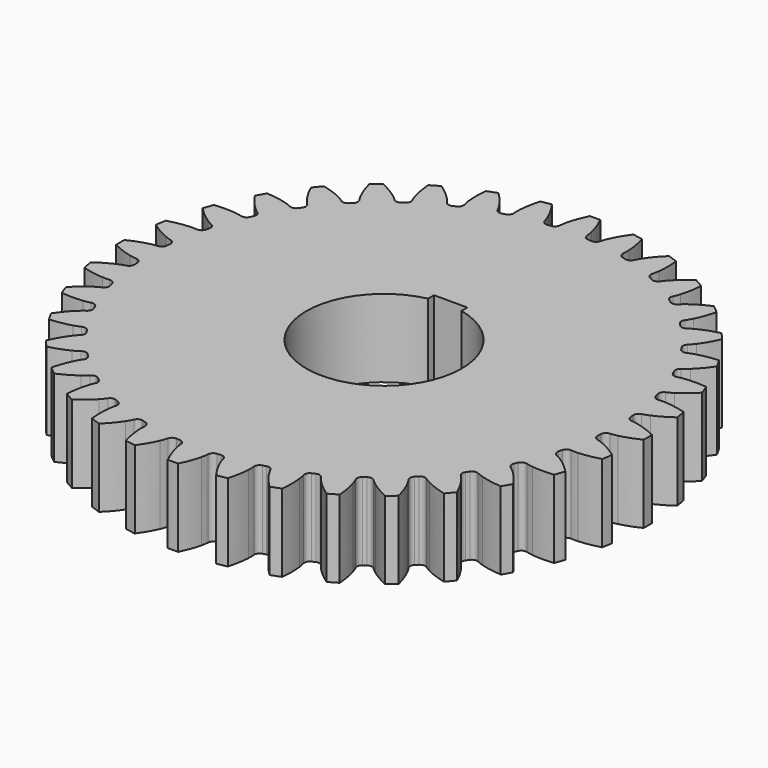
from build123d import *

# Parameters (mm, degrees)
PAD_DEPTH    = 7
POCKET_DEPTH = 7.001


with BuildPart() as part:
    # InvoluteGear → Pad (new body)
    with BuildSketch(Plane.XY):
        with BuildLine():
            add(Edge.make_bspline(
                [(21.31567, -1.229603), (21.45677, -1.217985), (21.668077, -1.190486), (21.946618, -1.126843)],
                knots=[0, 0, 0, 0, 1, 1, 1, 1], degree=3))
            add(Edge.make_bspline(
                [(21.946618, -1.126843), (22.391789, -1.024903), (23.001448, -0.832285), (23.746185, -0.470121)],
                knots=[0, 0, 0, 0, 1, 1, 1, 1], degree=3))
            ThreePointArc((23.746185, -0.470121), (23.750419, 0.000158), (23.745341, 0.470429))
            add(Edge.make_bspline(
                [(23.745341, 0.470429), (23.001448, 0.832285), (22.391789, 1.024903), (21.946618, 1.126843)],
                knots=[0, 0, 0, 0, 1, 1, 1, 1], degree=3))
            add(Edge.make_bspline(
                [(21.946618, 1.126843), (21.668077, 1.190486), (21.45677, 1.217985), (21.315806, 1.229586)],
                knots=[0, 0, 0, 0, 1, 1, 1, 1], degree=3))
            ThreePointArc((21.315806, 1.229586), (21.011728, 1.364872), (20.871073, 1.666503))
            ThreePointArc((20.871073, 1.666503), (20.857826, 1.824823), (20.843379, 1.983038))
            ThreePointArc((20.843379, 1.983038), (20.929484, 2.304451), (21.205355, 2.490504))
            add(Edge.make_bspline(
                [(21.205355, 2.490504), (21.342294, 2.526448), (21.545616, 2.590222), (21.808874, 2.701266)],
                knots=[0, 0, 0, 0, 1, 1, 1, 1], degree=3))
            add(Edge.make_bspline(
                [(21.808874, 2.701266), (22.22958, 2.878961), (22.796529, 3.174518), (23.467062, 3.660503)],
                knots=[0, 0, 0, 0, 1, 1, 1, 1], degree=3))
            ThreePointArc((23.467062, 3.660503), (23.389569, 4.124373), (23.302906, 4.586617))
            add(Edge.make_bspline(
                [(23.302906, 4.586617), (22.507479, 4.813801), (21.873635, 4.897626), (21.417525, 4.920714)],
                knots=[0, 0, 0, 0, 1, 1, 1, 1], degree=3))
            add(Edge.make_bspline(
                [(21.417525, 4.920714), (21.132164, 4.935022), (20.919292, 4.92541), (20.778455, 4.912356)],
                knots=[0, 0, 0, 0, 1, 1, 1, 1], degree=3))
            ThreePointArc((20.778455, 4.912356), (20.455505, 4.992784), (20.264609, 5.265409))
            ThreePointArc((20.264609, 5.265409), (20.224072, 5.419024), (20.182371, 5.572326))
            ThreePointArc((20.182371, 5.572326), (20.211355, 5.903808), (20.450727, 6.134939))
            add(Edge.make_bspline(
                [(20.450727, 6.134939), (20.579343, 6.194116), (20.768502, 6.292227), (21.008478, 6.447299)],
                knots=[0, 0, 0, 0, 1, 1, 1, 1], degree=3))
            add(Edge.make_bspline(
                [(21.008478, 6.447299), (21.391937, 6.695349), (21.898949, 7.084866), (22.474905, 7.679904)],
                knots=[0, 0, 0, 0, 1, 1, 1, 1], degree=3))
            ThreePointArc((22.474905, 7.679904), (22.318039, 8.12327), (22.152425, 8.563443))
            add(Edge.make_bspline(
                [(22.152425, 8.563443), (21.329633, 8.649051), (20.690862, 8.621537), (20.237672, 8.565071)],
                knots=[0, 0, 0, 0, 1, 1, 1, 1], degree=3))
            add(Edge.make_bspline(
                [(20.237672, 8.565071), (19.954162, 8.52961), (19.746193, 8.483179), (19.609762, 8.445868)],
                knots=[0, 0, 0, 0, 1, 1, 1, 1], degree=3))
            ThreePointArc((19.609762, 8.445868), (19.277752, 8.468994), (19.042415, 8.704328))
            ThreePointArc((19.042415, 8.704328), (18.975819, 8.84857), (18.908131, 8.992302))
            ThreePointArc((18.908131, 8.992302), (18.879113, 9.323781), (19.074713, 9.592967))
            add(Edge.make_bspline(
                [(19.074713, 9.592967), (19.1911, 9.673579), (19.360348, 9.803047), (19.56975, 9.997434)],
                knots=[0, 0, 0, 0, 1, 1, 1, 1], degree=3))
            add(Edge.make_bspline(
                [(19.56975, 9.997434), (19.90431, 10.308302), (20.335981, 10.779944), (20.79986, 11.465956)],
                knots=[0, 0, 0, 0, 1, 1, 1, 1], degree=3))
            ThreePointArc((20.79986, 11.465956), (20.568387, 11.875346), (20.328854, 12.280073))
            add(Edge.make_bspline(
                [(20.328854, 12.280073), (19.503696, 12.221504), (18.879407, 12.083487), (18.442907, 11.949184)],
                knots=[0, 0, 0, 0, 1, 1, 1, 1], degree=3))
            add(Edge.make_bspline(
                [(18.442907, 11.949184), (18.169862, 11.86503), (17.973115, 11.78319), (17.845236, 11.722755)],
                knots=[0, 0, 0, 0, 1, 1, 1, 1], degree=3))
            ThreePointArc((17.845236, 11.722755), (17.514254, 11.687877), (17.241627, 11.87877))
            ThreePointArc((17.241627, 11.87877), (17.150996, 12.009257), (17.059377, 12.139051))
            ThreePointArc((17.059377, 12.139051), (16.973239, 12.460456), (17.119124, 12.759518))
            add(Edge.make_bspline(
                [(17.119124, 12.759518), (17.219745, 12.859115), (17.36394, 13.016006), (17.536405, 13.243802)],
                knots=[0, 0, 0, 0, 1, 1, 1, 1], degree=3))
            add(Edge.make_bspline(
                [(17.536405, 13.243802), (17.811901, 13.608043), (18.155114, 14.147478), (18.492821, 14.90362)],
                knots=[0, 0, 0, 0, 1, 1, 1, 1], degree=3))
            ThreePointArc((18.492821, 14.90362), (18.193775, 15.266596), (17.887601, 15.62358))
            add(Edge.make_bspline(
                [(17.887601, 15.62358), (17.085149, 15.422613), (16.494311, 15.178286), (16.087764, 14.970226)],
                knots=[0, 0, 0, 0, 1, 1, 1, 1], degree=3))
            add(Edge.make_bspline(
                [(16.087764, 14.970226), (15.83348, 14.839937), (15.653934, 14.725176), (15.538492, 14.643453)],
                knots=[0, 0, 0, 0, 1, 1, 1, 1], degree=3))
            ThreePointArc((15.538492, 14.643453), (15.218595, 14.551631), (14.916962, 14.692282))
            ThreePointArc((14.916962, 14.692282), (14.805048, 14.805048), (14.692282, 14.916962))
            ThreePointArc((14.692282, 14.916962), (14.551642, 15.218525), (14.643379, 15.538377))
            add(Edge.make_bspline(
                [(14.643379, 15.538377), (14.725176, 15.653934), (14.839937, 15.83348), (14.970226, 16.087764)],
                knots=[0, 0, 0, 0, 1, 1, 1, 1], degree=3))
            add(Edge.make_bspline(
                [(14.970226, 16.087764), (15.178286, 16.494311), (15.422613, 17.085149), (15.623887, 17.888445)],
                knots=[0, 0, 0, 0, 1, 1, 1, 1], degree=3))
            ThreePointArc((15.623887, 17.888445), (15.266354, 18.193978), (14.902842, 18.492372))
            add(Edge.make_bspline(
                [(14.902842, 18.492372), (14.147478, 18.155114), (13.608043, 17.811901), (13.243802, 17.536405)],
                knots=[0, 0, 0, 0, 1, 1, 1, 1], degree=3))
            add(Edge.make_bspline(
                [(13.243802, 17.536405), (13.016006, 17.36394), (12.859115, 17.219745), (12.759618, 17.119217)],
                knots=[0, 0, 0, 0, 1, 1, 1, 1], degree=3))
            ThreePointArc((12.759618, 17.119217), (12.460526, 16.97324), (12.139051, 17.059377))
            ThreePointArc((12.139051, 17.059377), (12.009257, 17.150996), (11.87877, 17.241627))
            ThreePointArc((11.87877, 17.241627), (11.687901, 17.514188), (11.722703, 17.84511))
            add(Edge.make_bspline(
                [(11.722703, 17.84511), (11.78319, 17.973115), (11.86503, 18.169862), (11.949184, 18.442907)],
                knots=[0, 0, 0, 0, 1, 1, 1, 1], degree=3))
            add(Edge.make_bspline(
                [(11.949184, 18.442907), (12.083487, 18.879407), (12.221504, 19.503696), (12.280229, 20.329739)],
                knots=[0, 0, 0, 0, 1, 1, 1, 1], degree=3))
            ThreePointArc((12.280229, 20.329739), (11.875073, 20.568545), (11.465267, 20.799282))
            add(Edge.make_bspline(
                [(11.465267, 20.799282), (10.779944, 20.335981), (10.308302, 19.90431), (9.997434, 19.56975)],
                knots=[0, 0, 0, 0, 1, 1, 1, 1], degree=3))
            add(Edge.make_bspline(
                [(9.997434, 19.56975), (9.803047, 19.360348), (9.673579, 19.1911), (9.59305, 19.074822)],
                knots=[0, 0, 0, 0, 1, 1, 1, 1], degree=3))
            ThreePointArc((9.59305, 19.074822), (9.32385, 18.879126), (8.992302, 18.908131))
            ThreePointArc((8.992302, 18.908131), (8.84857, 18.975819), (8.704328, 19.042415))
            ThreePointArc((8.704328, 19.042415), (8.469029, 19.277691), (8.445838, 19.609628))
            add(Edge.make_bspline(
                [(8.445838, 19.609628), (8.483179, 19.746193), (8.52961, 19.954162), (8.565071, 20.237672)],
                knots=[0, 0, 0, 0, 1, 1, 1, 1], degree=3))
            add(Edge.make_bspline(
                [(8.565071, 20.237672), (8.621537, 20.690862), (8.649051, 21.329633), (8.563443, 22.153324)],
                knots=[0, 0, 0, 0, 1, 1, 1, 1], degree=3))
            ThreePointArc((8.563443, 22.153324), (8.122973, 22.318147), (7.679327, 22.474217))
            add(Edge.make_bspline(
                [(7.679327, 22.474217), (7.084866, 21.898949), (6.695349, 21.391937), (6.447299, 21.008478)],
                knots=[0, 0, 0, 0, 1, 1, 1, 1], degree=3))
            add(Edge.make_bspline(
                [(6.447299, 21.008478), (6.292227, 20.768502), (6.194116, 20.579343), (6.135002, 20.450848)],
                knots=[0, 0, 0, 0, 1, 1, 1, 1], degree=3))
            ThreePointArc((6.135002, 20.450848), (5.903874, 20.211379), (5.572326, 20.182371))
            ThreePointArc((5.572326, 20.182371), (5.419024, 20.224072), (5.265409, 20.264609))
            ThreePointArc((5.265409, 20.264609), (4.992829, 20.455451), (4.91235, 20.778318))
            add(Edge.make_bspline(
                [(4.91235, 20.778318), (4.92541, 20.919292), (4.935022, 21.132164), (4.920714, 21.417525)],
                knots=[0, 0, 0, 0, 1, 1, 1, 1], degree=3))
            add(Edge.make_bspline(
                [(4.920714, 21.417525), (4.897626, 21.873635), (4.813801, 22.507479), (4.58646, 23.303791)],
                knots=[0, 0, 0, 0, 1, 1, 1, 1], degree=3))
            ThreePointArc((4.58646, 23.303791), (4.124061, 23.389624), (3.660053, 23.466285))
            add(Edge.make_bspline(
                [(3.660053, 23.466285), (3.174518, 22.796529), (2.878961, 22.22958), (2.701266, 21.808874)],
                knots=[0, 0, 0, 0, 1, 1, 1, 1], degree=3))
            add(Edge.make_bspline(
                [(2.701266, 21.808874), (2.590222, 21.545616), (2.526448, 21.342294), (2.490545, 21.205486)],
                knots=[0, 0, 0, 0, 1, 1, 1, 1], degree=3))
            ThreePointArc((2.490545, 21.205486), (2.304512, 20.92952), (1.983038, 20.843379))
            ThreePointArc((1.983038, 20.843379), (1.824823, 20.857826), (1.666503, 20.871073))
            ThreePointArc((1.666503, 20.871073), (1.364925, 21.011682), (1.229603, 21.31567))
            add(Edge.make_bspline(
                [(1.229603, 21.31567), (1.217985, 21.45677), (1.190486, 21.668077), (1.126843, 21.946618)],
                knots=[0, 0, 0, 0, 1, 1, 1, 1], degree=3))
            add(Edge.make_bspline(
                [(1.126843, 21.946618), (1.024903, 22.391789), (0.832285, 23.001448), (0.470121, 23.746185)],
                knots=[0, 0, 0, 0, 1, 1, 1, 1], degree=3))
            ThreePointArc((0.470121, 23.746185), (-0.000158, 23.750419), (-0.470429, 23.745341))
            add(Edge.make_bspline(
                [(-0.470429, 23.745341), (-0.832285, 23.001448), (-1.024903, 22.391789), (-1.126843, 21.946618)],
                knots=[0, 0, 0, 0, 1, 1, 1, 1], degree=3))
            add(Edge.make_bspline(
                [(-1.126843, 21.946618), (-1.190486, 21.668077), (-1.217985, 21.45677), (-1.229586, 21.315806)],
                knots=[0, 0, 0, 0, 1, 1, 1, 1], degree=3))
            ThreePointArc((-1.229586, 21.315806), (-1.364872, 21.011728), (-1.666503, 20.871073))
            ThreePointArc((-1.666503, 20.871073), (-1.824823, 20.857826), (-1.983038, 20.843379))
            ThreePointArc((-1.983038, 20.843379), (-2.304451, 20.929484), (-2.490504, 21.205355))
            add(Edge.make_bspline(
                [(-2.490504, 21.205355), (-2.526448, 21.342294), (-2.590222, 21.545616), (-2.701266, 21.808874)],
                knots=[0, 0, 0, 0, 1, 1, 1, 1], degree=3))
            add(Edge.make_bspline(
                [(-2.701266, 21.808874), (-2.878961, 22.22958), (-3.174518, 22.796529), (-3.660503, 23.467062)],
                knots=[0, 0, 0, 0, 1, 1, 1, 1], degree=3))
            ThreePointArc((-3.660503, 23.467062), (-4.124373, 23.389569), (-4.586617, 23.302906))
            add(Edge.make_bspline(
                [(-4.586617, 23.302906), (-4.813801, 22.507479), (-4.897626, 21.873635), (-4.920714, 21.417525)],
                knots=[0, 0, 0, 0, 1, 1, 1, 1], degree=3))
            add(Edge.make_bspline(
                [(-4.920714, 21.417525), (-4.935022, 21.132164), (-4.92541, 20.919292), (-4.912356, 20.778455)],
                knots=[0, 0, 0, 0, 1, 1, 1, 1], degree=3))
            ThreePointArc((-4.912356, 20.778455), (-4.992784, 20.455505), (-5.265409, 20.264609))
            ThreePointArc((-5.265409, 20.264609), (-5.419024, 20.224072), (-5.572326, 20.182371))
            ThreePointArc((-5.572326, 20.182371), (-5.903808, 20.211355), (-6.134939, 20.450727))
            add(Edge.make_bspline(
                [(-6.134939, 20.450727), (-6.194116, 20.579343), (-6.292227, 20.768502), (-6.447299, 21.008478)],
                knots=[0, 0, 0, 0, 1, 1, 1, 1], degree=3))
            add(Edge.make_bspline(
                [(-6.447299, 21.008478), (-6.695349, 21.391937), (-7.084866, 21.898949), (-7.679904, 22.474905)],
                knots=[0, 0, 0, 0, 1, 1, 1, 1], degree=3))
            ThreePointArc((-7.679904, 22.474905), (-8.12327, 22.318039), (-8.563443, 22.152425))
            add(Edge.make_bspline(
                [(-8.563443, 22.152425), (-8.649051, 21.329633), (-8.621537, 20.690862), (-8.565071, 20.237672)],
                knots=[0, 0, 0, 0, 1, 1, 1, 1], degree=3))
            add(Edge.make_bspline(
                [(-8.565071, 20.237672), (-8.52961, 19.954162), (-8.483179, 19.746193), (-8.445868, 19.609762)],
                knots=[0, 0, 0, 0, 1, 1, 1, 1], degree=3))
            ThreePointArc((-8.445868, 19.609762), (-8.468994, 19.277752), (-8.704328, 19.042415))
            ThreePointArc((-8.704328, 19.042415), (-8.84857, 18.975819), (-8.992302, 18.908131))
            ThreePointArc((-8.992302, 18.908131), (-9.323781, 18.879113), (-9.592967, 19.074713))
            add(Edge.make_bspline(
                [(-9.592967, 19.074713), (-9.673579, 19.1911), (-9.803047, 19.360348), (-9.997434, 19.56975)],
                knots=[0, 0, 0, 0, 1, 1, 1, 1], degree=3))
            add(Edge.make_bspline(
                [(-9.997434, 19.56975), (-10.308302, 19.90431), (-10.779944, 20.335981), (-11.465956, 20.79986)],
                knots=[0, 0, 0, 0, 1, 1, 1, 1], degree=3))
            ThreePointArc((-11.465956, 20.79986), (-11.875346, 20.568387), (-12.280073, 20.328854))
            add(Edge.make_bspline(
                [(-12.280073, 20.328854), (-12.221504, 19.503696), (-12.083487, 18.879407), (-11.949184, 18.442907)],
                knots=[0, 0, 0, 0, 1, 1, 1, 1], degree=3))
            add(Edge.make_bspline(
                [(-11.949184, 18.442907), (-11.86503, 18.169862), (-11.78319, 17.973115), (-11.722755, 17.845236)],
                knots=[0, 0, 0, 0, 1, 1, 1, 1], degree=3))
            ThreePointArc((-11.722755, 17.845236), (-11.687877, 17.514254), (-11.87877, 17.241627))
            ThreePointArc((-11.87877, 17.241627), (-12.009257, 17.150996), (-12.139051, 17.059377))
            ThreePointArc((-12.139051, 17.059377), (-12.460456, 16.973239), (-12.759518, 17.119124))
            add(Edge.make_bspline(
                [(-12.759518, 17.119124), (-12.859115, 17.219745), (-13.016006, 17.36394), (-13.243802, 17.536405)],
                knots=[0, 0, 0, 0, 1, 1, 1, 1], degree=3))
            add(Edge.make_bspline(
                [(-13.243802, 17.536405), (-13.608043, 17.811901), (-14.147478, 18.155114), (-14.90362, 18.492821)],
                knots=[0, 0, 0, 0, 1, 1, 1, 1], degree=3))
            ThreePointArc((-14.90362, 18.492821), (-15.266596, 18.193775), (-15.62358, 17.887601))
            add(Edge.make_bspline(
                [(-15.62358, 17.887601), (-15.422613, 17.085149), (-15.178286, 16.494311), (-14.970226, 16.087764)],
                knots=[0, 0, 0, 0, 1, 1, 1, 1], degree=3))
            add(Edge.make_bspline(
                [(-14.970226, 16.087764), (-14.839937, 15.83348), (-14.725176, 15.653934), (-14.643453, 15.538492)],
                knots=[0, 0, 0, 0, 1, 1, 1, 1], degree=3))
            ThreePointArc((-14.643453, 15.538492), (-14.551631, 15.218595), (-14.692282, 14.916962))
            ThreePointArc((-14.692282, 14.916962), (-14.805048, 14.805048), (-14.916962, 14.692282))
            ThreePointArc((-14.916962, 14.692282), (-15.218525, 14.551642), (-15.538377, 14.643379))
            add(Edge.make_bspline(
                [(-15.538377, 14.643379), (-15.653934, 14.725176), (-15.83348, 14.839937), (-16.087764, 14.970226)],
                knots=[0, 0, 0, 0, 1, 1, 1, 1], degree=3))
            add(Edge.make_bspline(
                [(-16.087764, 14.970226), (-16.494311, 15.178286), (-17.085149, 15.422613), (-17.888445, 15.623887)],
                knots=[0, 0, 0, 0, 1, 1, 1, 1], degree=3))
            ThreePointArc((-17.888445, 15.623887), (-18.193978, 15.266354), (-18.492372, 14.902842))
            add(Edge.make_bspline(
                [(-18.492372, 14.902842), (-18.155114, 14.147478), (-17.811901, 13.608043), (-17.536405, 13.243802)],
                knots=[0, 0, 0, 0, 1, 1, 1, 1], degree=3))
            add(Edge.make_bspline(
                [(-17.536405, 13.243802), (-17.36394, 13.016006), (-17.219745, 12.859115), (-17.119217, 12.759618)],
                knots=[0, 0, 0, 0, 1, 1, 1, 1], degree=3))
            ThreePointArc((-17.119217, 12.759618), (-16.97324, 12.460526), (-17.059377, 12.139051))
            ThreePointArc((-17.059377, 12.139051), (-17.150996, 12.009257), (-17.241627, 11.87877))
            ThreePointArc((-17.241627, 11.87877), (-17.514188, 11.687901), (-17.84511, 11.722703))
            add(Edge.make_bspline(
                [(-17.84511, 11.722703), (-17.973115, 11.78319), (-18.169862, 11.86503), (-18.442907, 11.949184)],
                knots=[0, 0, 0, 0, 1, 1, 1, 1], degree=3))
            add(Edge.make_bspline(
                [(-18.442907, 11.949184), (-18.879407, 12.083487), (-19.503696, 12.221504), (-20.329739, 12.280229)],
                knots=[0, 0, 0, 0, 1, 1, 1, 1], degree=3))
            ThreePointArc((-20.329739, 12.280229), (-20.568545, 11.875073), (-20.799282, 11.465267))
            add(Edge.make_bspline(
                [(-20.799282, 11.465267), (-20.335981, 10.779944), (-19.90431, 10.308302), (-19.56975, 9.997434)],
                knots=[0, 0, 0, 0, 1, 1, 1, 1], degree=3))
            add(Edge.make_bspline(
                [(-19.56975, 9.997434), (-19.360348, 9.803047), (-19.1911, 9.673579), (-19.074822, 9.59305)],
                knots=[0, 0, 0, 0, 1, 1, 1, 1], degree=3))
            ThreePointArc((-19.074822, 9.59305), (-18.879126, 9.32385), (-18.908131, 8.992302))
            ThreePointArc((-18.908131, 8.992302), (-18.975819, 8.84857), (-19.042415, 8.704328))
            ThreePointArc((-19.042415, 8.704328), (-19.277691, 8.469029), (-19.609628, 8.445838))
            add(Edge.make_bspline(
                [(-19.609628, 8.445838), (-19.746193, 8.483179), (-19.954162, 8.52961), (-20.237672, 8.565071)],
                knots=[0, 0, 0, 0, 1, 1, 1, 1], degree=3))
            add(Edge.make_bspline(
                [(-20.237672, 8.565071), (-20.690862, 8.621537), (-21.329633, 8.649051), (-22.153324, 8.563443)],
                knots=[0, 0, 0, 0, 1, 1, 1, 1], degree=3))
            ThreePointArc((-22.153324, 8.563443), (-22.318147, 8.122973), (-22.474217, 7.679327))
            add(Edge.make_bspline(
                [(-22.474217, 7.679327), (-21.898949, 7.084866), (-21.391937, 6.695349), (-21.008478, 6.447299)],
                knots=[0, 0, 0, 0, 1, 1, 1, 1], degree=3))
            add(Edge.make_bspline(
                [(-21.008478, 6.447299), (-20.768502, 6.292227), (-20.579343, 6.194116), (-20.450848, 6.135002)],
                knots=[0, 0, 0, 0, 1, 1, 1, 1], degree=3))
            ThreePointArc((-20.450848, 6.135002), (-20.211379, 5.903874), (-20.182371, 5.572326))
            ThreePointArc((-20.182371, 5.572326), (-20.224072, 5.419024), (-20.264609, 5.265409))
            ThreePointArc((-20.264609, 5.265409), (-20.455451, 4.992829), (-20.778318, 4.91235))
            add(Edge.make_bspline(
                [(-20.778318, 4.91235), (-20.919292, 4.92541), (-21.132164, 4.935022), (-21.417525, 4.920714)],
                knots=[0, 0, 0, 0, 1, 1, 1, 1], degree=3))
            add(Edge.make_bspline(
                [(-21.417525, 4.920714), (-21.873635, 4.897626), (-22.507479, 4.813801), (-23.303791, 4.58646)],
                knots=[0, 0, 0, 0, 1, 1, 1, 1], degree=3))
            ThreePointArc((-23.303791, 4.58646), (-23.389624, 4.124061), (-23.466285, 3.660053))
            add(Edge.make_bspline(
                [(-23.466285, 3.660053), (-22.796529, 3.174518), (-22.22958, 2.878961), (-21.808874, 2.701266)],
                knots=[0, 0, 0, 0, 1, 1, 1, 1], degree=3))
            add(Edge.make_bspline(
                [(-21.808874, 2.701266), (-21.545616, 2.590222), (-21.342294, 2.526448), (-21.205486, 2.490545)],
                knots=[0, 0, 0, 0, 1, 1, 1, 1], degree=3))
            ThreePointArc((-21.205486, 2.490545), (-20.92952, 2.304512), (-20.843379, 1.983038))
            ThreePointArc((-20.843379, 1.983038), (-20.857826, 1.824823), (-20.871073, 1.666503))
            ThreePointArc((-20.871073, 1.666503), (-21.011682, 1.364925), (-21.31567, 1.229603))
            add(Edge.make_bspline(
                [(-21.31567, 1.229603), (-21.45677, 1.217985), (-21.668077, 1.190486), (-21.946618, 1.126843)],
                knots=[0, 0, 0, 0, 1, 1, 1, 1], degree=3))
            add(Edge.make_bspline(
                [(-21.946618, 1.126843), (-22.391789, 1.024903), (-23.001448, 0.832285), (-23.746185, 0.470121)],
                knots=[0, 0, 0, 0, 1, 1, 1, 1], degree=3))
            ThreePointArc((-23.746185, 0.470121), (-23.750419, -0.000158), (-23.745341, -0.470429))
            add(Edge.make_bspline(
                [(-23.745341, -0.470429), (-23.001448, -0.832285), (-22.391789, -1.024903), (-21.946618, -1.126843)],
                knots=[0, 0, 0, 0, 1, 1, 1, 1], degree=3))
            add(Edge.make_bspline(
                [(-21.946618, -1.126843), (-21.668077, -1.190486), (-21.45677, -1.217985), (-21.315806, -1.229586)],
                knots=[0, 0, 0, 0, 1, 1, 1, 1], degree=3))
            ThreePointArc((-21.315806, -1.229586), (-21.011728, -1.364872), (-20.871073, -1.666503))
            ThreePointArc((-20.871073, -1.666503), (-20.857826, -1.824823), (-20.843379, -1.983038))
            ThreePointArc((-20.843379, -1.983038), (-20.929484, -2.304451), (-21.205355, -2.490504))
            add(Edge.make_bspline(
                [(-21.205355, -2.490504), (-21.342294, -2.526448), (-21.545616, -2.590222), (-21.808874, -2.701266)],
                knots=[0, 0, 0, 0, 1, 1, 1, 1], degree=3))
            add(Edge.make_bspline(
                [(-21.808874, -2.701266), (-22.22958, -2.878961), (-22.796529, -3.174518), (-23.467062, -3.660503)],
                knots=[0, 0, 0, 0, 1, 1, 1, 1], degree=3))
            ThreePointArc((-23.467062, -3.660503), (-23.389569, -4.124373), (-23.302906, -4.586617))
            add(Edge.make_bspline(
                [(-23.302906, -4.586617), (-22.507479, -4.813801), (-21.873635, -4.897626), (-21.417525, -4.920714)],
                knots=[0, 0, 0, 0, 1, 1, 1, 1], degree=3))
            add(Edge.make_bspline(
                [(-21.417525, -4.920714), (-21.132164, -4.935022), (-20.919292, -4.92541), (-20.778455, -4.912356)],
                knots=[0, 0, 0, 0, 1, 1, 1, 1], degree=3))
            ThreePointArc((-20.778455, -4.912356), (-20.455505, -4.992784), (-20.264609, -5.265409))
            ThreePointArc((-20.264609, -5.265409), (-20.224072, -5.419024), (-20.182371, -5.572326))
            ThreePointArc((-20.182371, -5.572326), (-20.211355, -5.903808), (-20.450727, -6.134939))
            add(Edge.make_bspline(
                [(-20.450727, -6.134939), (-20.579343, -6.194116), (-20.768502, -6.292227), (-21.008478, -6.447299)],
                knots=[0, 0, 0, 0, 1, 1, 1, 1], degree=3))
            add(Edge.make_bspline(
                [(-21.008478, -6.447299), (-21.391937, -6.695349), (-21.898949, -7.084866), (-22.474905, -7.679904)],
                knots=[0, 0, 0, 0, 1, 1, 1, 1], degree=3))
            ThreePointArc((-22.474905, -7.679904), (-22.318039, -8.12327), (-22.152425, -8.563443))
            add(Edge.make_bspline(
                [(-22.152425, -8.563443), (-21.329633, -8.649051), (-20.690862, -8.621537), (-20.237672, -8.565071)],
                knots=[0, 0, 0, 0, 1, 1, 1, 1], degree=3))
            add(Edge.make_bspline(
                [(-20.237672, -8.565071), (-19.954162, -8.52961), (-19.746193, -8.483179), (-19.609762, -8.445868)],
                knots=[0, 0, 0, 0, 1, 1, 1, 1], degree=3))
            ThreePointArc((-19.609762, -8.445868), (-19.277752, -8.468994), (-19.042415, -8.704328))
            ThreePointArc((-19.042415, -8.704328), (-18.975819, -8.84857), (-18.908131, -8.992302))
            ThreePointArc((-18.908131, -8.992302), (-18.879113, -9.323781), (-19.074713, -9.592967))
            add(Edge.make_bspline(
                [(-19.074713, -9.592967), (-19.1911, -9.673579), (-19.360348, -9.803047), (-19.56975, -9.997434)],
                knots=[0, 0, 0, 0, 1, 1, 1, 1], degree=3))
            add(Edge.make_bspline(
                [(-19.56975, -9.997434), (-19.90431, -10.308302), (-20.335981, -10.779944), (-20.79986, -11.465956)],
                knots=[0, 0, 0, 0, 1, 1, 1, 1], degree=3))
            ThreePointArc((-20.79986, -11.465956), (-20.568387, -11.875346), (-20.328854, -12.280073))
            add(Edge.make_bspline(
                [(-20.328854, -12.280073), (-19.503696, -12.221504), (-18.879407, -12.083487), (-18.442907, -11.949184)],
                knots=[0, 0, 0, 0, 1, 1, 1, 1], degree=3))
            add(Edge.make_bspline(
                [(-18.442907, -11.949184), (-18.169862, -11.86503), (-17.973115, -11.78319), (-17.845236, -11.722755)],
                knots=[0, 0, 0, 0, 1, 1, 1, 1], degree=3))
            ThreePointArc((-17.845236, -11.722755), (-17.514254, -11.687877), (-17.241627, -11.87877))
            ThreePointArc((-17.241627, -11.87877), (-17.150996, -12.009257), (-17.059377, -12.139051))
            ThreePointArc((-17.059377, -12.139051), (-16.973239, -12.460456), (-17.119124, -12.759518))
            add(Edge.make_bspline(
                [(-17.119124, -12.759518), (-17.219745, -12.859115), (-17.36394, -13.016006), (-17.536405, -13.243802)],
                knots=[0, 0, 0, 0, 1, 1, 1, 1], degree=3))
            add(Edge.make_bspline(
                [(-17.536405, -13.243802), (-17.811901, -13.608043), (-18.155114, -14.147478), (-18.492821, -14.90362)],
                knots=[0, 0, 0, 0, 1, 1, 1, 1], degree=3))
            ThreePointArc((-18.492821, -14.90362), (-18.193775, -15.266596), (-17.887601, -15.62358))
            add(Edge.make_bspline(
                [(-17.887601, -15.62358), (-17.085149, -15.422613), (-16.494311, -15.178286), (-16.087764, -14.970226)],
                knots=[0, 0, 0, 0, 1, 1, 1, 1], degree=3))
            add(Edge.make_bspline(
                [(-16.087764, -14.970226), (-15.83348, -14.839937), (-15.653934, -14.725176), (-15.538492, -14.643453)],
                knots=[0, 0, 0, 0, 1, 1, 1, 1], degree=3))
            ThreePointArc((-15.538492, -14.643453), (-15.218595, -14.551631), (-14.916962, -14.692282))
            ThreePointArc((-14.916962, -14.692282), (-14.805048, -14.805048), (-14.692282, -14.916962))
            ThreePointArc((-14.692282, -14.916962), (-14.551642, -15.218525), (-14.643379, -15.538377))
            add(Edge.make_bspline(
                [(-14.643379, -15.538377), (-14.725176, -15.653934), (-14.839937, -15.83348), (-14.970226, -16.087764)],
                knots=[0, 0, 0, 0, 1, 1, 1, 1], degree=3))
            add(Edge.make_bspline(
                [(-14.970226, -16.087764), (-15.178286, -16.494311), (-15.422613, -17.085149), (-15.623887, -17.888445)],
                knots=[0, 0, 0, 0, 1, 1, 1, 1], degree=3))
            ThreePointArc((-15.623887, -17.888445), (-15.266354, -18.193978), (-14.902842, -18.492372))
            add(Edge.make_bspline(
                [(-14.902842, -18.492372), (-14.147478, -18.155114), (-13.608043, -17.811901), (-13.243802, -17.536405)],
                knots=[0, 0, 0, 0, 1, 1, 1, 1], degree=3))
            add(Edge.make_bspline(
                [(-13.243802, -17.536405), (-13.016006, -17.36394), (-12.859115, -17.219745), (-12.759618, -17.119217)],
                knots=[0, 0, 0, 0, 1, 1, 1, 1], degree=3))
            ThreePointArc((-12.759618, -17.119217), (-12.460526, -16.97324), (-12.139051, -17.059377))
            ThreePointArc((-12.139051, -17.059377), (-12.009257, -17.150996), (-11.87877, -17.241627))
            ThreePointArc((-11.87877, -17.241627), (-11.687901, -17.514188), (-11.722703, -17.84511))
            add(Edge.make_bspline(
                [(-11.722703, -17.84511), (-11.78319, -17.973115), (-11.86503, -18.169862), (-11.949184, -18.442907)],
                knots=[0, 0, 0, 0, 1, 1, 1, 1], degree=3))
            add(Edge.make_bspline(
                [(-11.949184, -18.442907), (-12.083487, -18.879407), (-12.221504, -19.503696), (-12.280229, -20.329739)],
                knots=[0, 0, 0, 0, 1, 1, 1, 1], degree=3))
            ThreePointArc((-12.280229, -20.329739), (-11.875073, -20.568545), (-11.465267, -20.799282))
            add(Edge.make_bspline(
                [(-11.465267, -20.799282), (-10.779944, -20.335981), (-10.308302, -19.90431), (-9.997434, -19.56975)],
                knots=[0, 0, 0, 0, 1, 1, 1, 1], degree=3))
            add(Edge.make_bspline(
                [(-9.997434, -19.56975), (-9.803047, -19.360348), (-9.673579, -19.1911), (-9.59305, -19.074822)],
                knots=[0, 0, 0, 0, 1, 1, 1, 1], degree=3))
            ThreePointArc((-9.59305, -19.074822), (-9.32385, -18.879126), (-8.992302, -18.908131))
            ThreePointArc((-8.992302, -18.908131), (-8.84857, -18.975819), (-8.704328, -19.042415))
            ThreePointArc((-8.704328, -19.042415), (-8.469029, -19.277691), (-8.445838, -19.609628))
            add(Edge.make_bspline(
                [(-8.445838, -19.609628), (-8.483179, -19.746193), (-8.52961, -19.954162), (-8.565071, -20.237672)],
                knots=[0, 0, 0, 0, 1, 1, 1, 1], degree=3))
            add(Edge.make_bspline(
                [(-8.565071, -20.237672), (-8.621537, -20.690862), (-8.649051, -21.329633), (-8.563443, -22.153324)],
                knots=[0, 0, 0, 0, 1, 1, 1, 1], degree=3))
            ThreePointArc((-8.563443, -22.153324), (-8.122973, -22.318147), (-7.679327, -22.474217))
            add(Edge.make_bspline(
                [(-7.679327, -22.474217), (-7.084866, -21.898949), (-6.695349, -21.391937), (-6.447299, -21.008478)],
                knots=[0, 0, 0, 0, 1, 1, 1, 1], degree=3))
            add(Edge.make_bspline(
                [(-6.447299, -21.008478), (-6.292227, -20.768502), (-6.194116, -20.579343), (-6.135002, -20.450848)],
                knots=[0, 0, 0, 0, 1, 1, 1, 1], degree=3))
            ThreePointArc((-6.135002, -20.450848), (-5.903874, -20.211379), (-5.572326, -20.182371))
            ThreePointArc((-5.572326, -20.182371), (-5.419024, -20.224072), (-5.265409, -20.264609))
            ThreePointArc((-5.265409, -20.264609), (-4.992829, -20.455451), (-4.91235, -20.778318))
            add(Edge.make_bspline(
                [(-4.91235, -20.778318), (-4.92541, -20.919292), (-4.935022, -21.132164), (-4.920714, -21.417525)],
                knots=[0, 0, 0, 0, 1, 1, 1, 1], degree=3))
            add(Edge.make_bspline(
                [(-4.920714, -21.417525), (-4.897626, -21.873635), (-4.813801, -22.507479), (-4.58646, -23.303791)],
                knots=[0, 0, 0, 0, 1, 1, 1, 1], degree=3))
            ThreePointArc((-4.58646, -23.303791), (-4.124061, -23.389624), (-3.660053, -23.466285))
            add(Edge.make_bspline(
                [(-3.660053, -23.466285), (-3.174518, -22.796529), (-2.878961, -22.22958), (-2.701266, -21.808874)],
                knots=[0, 0, 0, 0, 1, 1, 1, 1], degree=3))
            add(Edge.make_bspline(
                [(-2.701266, -21.808874), (-2.590222, -21.545616), (-2.526448, -21.342294), (-2.490545, -21.205486)],
                knots=[0, 0, 0, 0, 1, 1, 1, 1], degree=3))
            ThreePointArc((-2.490545, -21.205486), (-2.304512, -20.92952), (-1.983038, -20.843379))
            ThreePointArc((-1.983038, -20.843379), (-1.824823, -20.857826), (-1.666503, -20.871073))
            ThreePointArc((-1.666503, -20.871073), (-1.364925, -21.011682), (-1.229603, -21.31567))
            add(Edge.make_bspline(
                [(-1.229603, -21.31567), (-1.217985, -21.45677), (-1.190486, -21.668077), (-1.126843, -21.946618)],
                knots=[0, 0, 0, 0, 1, 1, 1, 1], degree=3))
            add(Edge.make_bspline(
                [(-1.126843, -21.946618), (-1.024903, -22.391789), (-0.832285, -23.001448), (-0.470121, -23.746185)],
                knots=[0, 0, 0, 0, 1, 1, 1, 1], degree=3))
            ThreePointArc((-0.470121, -23.746185), (0.000158, -23.750419), (0.470429, -23.745341))
            add(Edge.make_bspline(
                [(0.470429, -23.745341), (0.832285, -23.001448), (1.024903, -22.391789), (1.126843, -21.946618)],
                knots=[0, 0, 0, 0, 1, 1, 1, 1], degree=3))
            add(Edge.make_bspline(
                [(1.126843, -21.946618), (1.190486, -21.668077), (1.217985, -21.45677), (1.229586, -21.315806)],
                knots=[0, 0, 0, 0, 1, 1, 1, 1], degree=3))
            ThreePointArc((1.229586, -21.315806), (1.364872, -21.011728), (1.666503, -20.871073))
            ThreePointArc((1.666503, -20.871073), (1.824823, -20.857826), (1.983038, -20.843379))
            ThreePointArc((1.983038, -20.843379), (2.304451, -20.929484), (2.490504, -21.205355))
            add(Edge.make_bspline(
                [(2.490504, -21.205355), (2.526448, -21.342294), (2.590222, -21.545616), (2.701266, -21.808874)],
                knots=[0, 0, 0, 0, 1, 1, 1, 1], degree=3))
            add(Edge.make_bspline(
                [(2.701266, -21.808874), (2.878961, -22.22958), (3.174518, -22.796529), (3.660503, -23.467062)],
                knots=[0, 0, 0, 0, 1, 1, 1, 1], degree=3))
            ThreePointArc((3.660503, -23.467062), (4.124373, -23.389569), (4.586617, -23.302906))
            add(Edge.make_bspline(
                [(4.586617, -23.302906), (4.813801, -22.507479), (4.897626, -21.873635), (4.920714, -21.417525)],
                knots=[0, 0, 0, 0, 1, 1, 1, 1], degree=3))
            add(Edge.make_bspline(
                [(4.920714, -21.417525), (4.935022, -21.132164), (4.92541, -20.919292), (4.912356, -20.778455)],
                knots=[0, 0, 0, 0, 1, 1, 1, 1], degree=3))
            ThreePointArc((4.912356, -20.778455), (4.992784, -20.455505), (5.265409, -20.264609))
            ThreePointArc((5.265409, -20.264609), (5.419024, -20.224072), (5.572326, -20.182371))
            ThreePointArc((5.572326, -20.182371), (5.903808, -20.211355), (6.134939, -20.450727))
            add(Edge.make_bspline(
                [(6.134939, -20.450727), (6.194116, -20.579343), (6.292227, -20.768502), (6.447299, -21.008478)],
                knots=[0, 0, 0, 0, 1, 1, 1, 1], degree=3))
            add(Edge.make_bspline(
                [(6.447299, -21.008478), (6.695349, -21.391937), (7.084866, -21.898949), (7.679904, -22.474905)],
                knots=[0, 0, 0, 0, 1, 1, 1, 1], degree=3))
            ThreePointArc((7.679904, -22.474905), (8.12327, -22.318039), (8.563443, -22.152425))
            add(Edge.make_bspline(
                [(8.563443, -22.152425), (8.649051, -21.329633), (8.621537, -20.690862), (8.565071, -20.237672)],
                knots=[0, 0, 0, 0, 1, 1, 1, 1], degree=3))
            add(Edge.make_bspline(
                [(8.565071, -20.237672), (8.52961, -19.954162), (8.483179, -19.746193), (8.445868, -19.609762)],
                knots=[0, 0, 0, 0, 1, 1, 1, 1], degree=3))
            ThreePointArc((8.445868, -19.609762), (8.468994, -19.277752), (8.704328, -19.042415))
            ThreePointArc((8.704328, -19.042415), (8.84857, -18.975819), (8.992302, -18.908131))
            ThreePointArc((8.992302, -18.908131), (9.323781, -18.879113), (9.592967, -19.074713))
            add(Edge.make_bspline(
                [(9.592967, -19.074713), (9.673579, -19.1911), (9.803047, -19.360348), (9.997434, -19.56975)],
                knots=[0, 0, 0, 0, 1, 1, 1, 1], degree=3))
            add(Edge.make_bspline(
                [(9.997434, -19.56975), (10.308302, -19.90431), (10.779944, -20.335981), (11.465956, -20.79986)],
                knots=[0, 0, 0, 0, 1, 1, 1, 1], degree=3))
            ThreePointArc((11.465956, -20.79986), (11.875346, -20.568387), (12.280073, -20.328854))
            add(Edge.make_bspline(
                [(12.280073, -20.328854), (12.221504, -19.503696), (12.083487, -18.879407), (11.949184, -18.442907)],
                knots=[0, 0, 0, 0, 1, 1, 1, 1], degree=3))
            add(Edge.make_bspline(
                [(11.949184, -18.442907), (11.86503, -18.169862), (11.78319, -17.973115), (11.722755, -17.845236)],
                knots=[0, 0, 0, 0, 1, 1, 1, 1], degree=3))
            ThreePointArc((11.722755, -17.845236), (11.687877, -17.514254), (11.87877, -17.241627))
            ThreePointArc((11.87877, -17.241627), (12.009257, -17.150996), (12.139051, -17.059377))
            ThreePointArc((12.139051, -17.059377), (12.460456, -16.973239), (12.759518, -17.119124))
            add(Edge.make_bspline(
                [(12.759518, -17.119124), (12.859115, -17.219745), (13.016006, -17.36394), (13.243802, -17.536405)],
                knots=[0, 0, 0, 0, 1, 1, 1, 1], degree=3))
            add(Edge.make_bspline(
                [(13.243802, -17.536405), (13.608043, -17.811901), (14.147478, -18.155114), (14.90362, -18.492821)],
                knots=[0, 0, 0, 0, 1, 1, 1, 1], degree=3))
            ThreePointArc((14.90362, -18.492821), (15.266596, -18.193775), (15.62358, -17.887601))
            add(Edge.make_bspline(
                [(15.62358, -17.887601), (15.422613, -17.085149), (15.178286, -16.494311), (14.970226, -16.087764)],
                knots=[0, 0, 0, 0, 1, 1, 1, 1], degree=3))
            add(Edge.make_bspline(
                [(14.970226, -16.087764), (14.839937, -15.83348), (14.725176, -15.653934), (14.643453, -15.538492)],
                knots=[0, 0, 0, 0, 1, 1, 1, 1], degree=3))
            ThreePointArc((14.643453, -15.538492), (14.551631, -15.218595), (14.692282, -14.916962))
            ThreePointArc((14.692282, -14.916962), (14.805048, -14.805048), (14.916962, -14.692282))
            ThreePointArc((14.916962, -14.692282), (15.218525, -14.551642), (15.538377, -14.643379))
            add(Edge.make_bspline(
                [(15.538377, -14.643379), (15.653934, -14.725176), (15.83348, -14.839937), (16.087764, -14.970226)],
                knots=[0, 0, 0, 0, 1, 1, 1, 1], degree=3))
            add(Edge.make_bspline(
                [(16.087764, -14.970226), (16.494311, -15.178286), (17.085149, -15.422613), (17.888445, -15.623887)],
                knots=[0, 0, 0, 0, 1, 1, 1, 1], degree=3))
            ThreePointArc((17.888445, -15.623887), (18.193978, -15.266354), (18.492372, -14.902842))
            add(Edge.make_bspline(
                [(18.492372, -14.902842), (18.155114, -14.147478), (17.811901, -13.608043), (17.536405, -13.243802)],
                knots=[0, 0, 0, 0, 1, 1, 1, 1], degree=3))
            add(Edge.make_bspline(
                [(17.536405, -13.243802), (17.36394, -13.016006), (17.219745, -12.859115), (17.119217, -12.759618)],
                knots=[0, 0, 0, 0, 1, 1, 1, 1], degree=3))
            ThreePointArc((17.119217, -12.759618), (16.97324, -12.460526), (17.059377, -12.139051))
            ThreePointArc((17.059377, -12.139051), (17.150996, -12.009257), (17.241627, -11.87877))
            ThreePointArc((17.241627, -11.87877), (17.514188, -11.687901), (17.84511, -11.722703))
            add(Edge.make_bspline(
                [(17.84511, -11.722703), (17.973115, -11.78319), (18.169862, -11.86503), (18.442907, -11.949184)],
                knots=[0, 0, 0, 0, 1, 1, 1, 1], degree=3))
            add(Edge.make_bspline(
                [(18.442907, -11.949184), (18.879407, -12.083487), (19.503696, -12.221504), (20.329739, -12.280229)],
                knots=[0, 0, 0, 0, 1, 1, 1, 1], degree=3))
            ThreePointArc((20.329739, -12.280229), (20.568545, -11.875073), (20.799282, -11.465267))
            add(Edge.make_bspline(
                [(20.799282, -11.465267), (20.335981, -10.779944), (19.90431, -10.308302), (19.56975, -9.997434)],
                knots=[0, 0, 0, 0, 1, 1, 1, 1], degree=3))
            add(Edge.make_bspline(
                [(19.56975, -9.997434), (19.360348, -9.803047), (19.1911, -9.673579), (19.074822, -9.59305)],
                knots=[0, 0, 0, 0, 1, 1, 1, 1], degree=3))
            ThreePointArc((19.074822, -9.59305), (18.879126, -9.32385), (18.908131, -8.992302))
            ThreePointArc((18.908131, -8.992302), (18.975819, -8.84857), (19.042415, -8.704328))
            ThreePointArc((19.042415, -8.704328), (19.277691, -8.469029), (19.609628, -8.445838))
            add(Edge.make_bspline(
                [(19.609628, -8.445838), (19.746193, -8.483179), (19.954162, -8.52961), (20.237672, -8.565071)],
                knots=[0, 0, 0, 0, 1, 1, 1, 1], degree=3))
            add(Edge.make_bspline(
                [(20.237672, -8.565071), (20.690862, -8.621537), (21.329633, -8.649051), (22.153324, -8.563443)],
                knots=[0, 0, 0, 0, 1, 1, 1, 1], degree=3))
            ThreePointArc((22.153324, -8.563443), (22.318147, -8.122973), (22.474217, -7.679327))
            add(Edge.make_bspline(
                [(22.474217, -7.679327), (21.898949, -7.084866), (21.391937, -6.695349), (21.008478, -6.447299)],
                knots=[0, 0, 0, 0, 1, 1, 1, 1], degree=3))
            add(Edge.make_bspline(
                [(21.008478, -6.447299), (20.768502, -6.292227), (20.579343, -6.194116), (20.450848, -6.135002)],
                knots=[0, 0, 0, 0, 1, 1, 1, 1], degree=3))
            ThreePointArc((20.450848, -6.135002), (20.211379, -5.903874), (20.182371, -5.572326))
            ThreePointArc((20.182371, -5.572326), (20.224072, -5.419024), (20.264609, -5.265409))
            ThreePointArc((20.264609, -5.265409), (20.455451, -4.992829), (20.778318, -4.91235))
            add(Edge.make_bspline(
                [(20.778318, -4.91235), (20.919292, -4.92541), (21.132164, -4.935022), (21.417525, -4.920714)],
                knots=[0, 0, 0, 0, 1, 1, 1, 1], degree=3))
            add(Edge.make_bspline(
                [(21.417525, -4.920714), (21.873635, -4.897626), (22.507479, -4.813801), (23.303791, -4.58646)],
                knots=[0, 0, 0, 0, 1, 1, 1, 1], degree=3))
            ThreePointArc((23.303791, -4.58646), (23.389624, -4.124061), (23.466285, -3.660053))
            add(Edge.make_bspline(
                [(23.466285, -3.660053), (22.796529, -3.174518), (22.22958, -2.878961), (21.808874, -2.701266)],
                knots=[0, 0, 0, 0, 1, 1, 1, 1], degree=3))
            add(Edge.make_bspline(
                [(21.808874, -2.701266), (21.545616, -2.590222), (21.342294, -2.526448), (21.205486, -2.490545)],
                knots=[0, 0, 0, 0, 1, 1, 1, 1], degree=3))
            ThreePointArc((21.205486, -2.490545), (20.92952, -2.304512), (20.843379, -1.983038))
            ThreePointArc((20.843379, -1.983038), (20.857826, -1.824823), (20.871073, -1.666503))
            ThreePointArc((20.871073, -1.666503), (21.011682, -1.364925), (21.31567, -1.229603))
        make_face()
    extrude(amount=PAD_DEPTH)

    # Sketch001 → Pocket (cut, through all)
    with BuildSketch(Plane.XY.offset(7)):
        with BuildLine():
            ThreePointArc((-1.5, 6.837397), (0, -7), (1.5, 6.837397))
            Line((1.5, 7.5), (1.5, 6.837397))
            Line((-1.5, 7.5), (1.5, 7.5))
            Line((-1.5, 7.5), (-1.5, 6.837397))
        make_face()
    extrude(amount=-POCKET_DEPTH, mode=Mode.SUBTRACT)


solid = part.part
